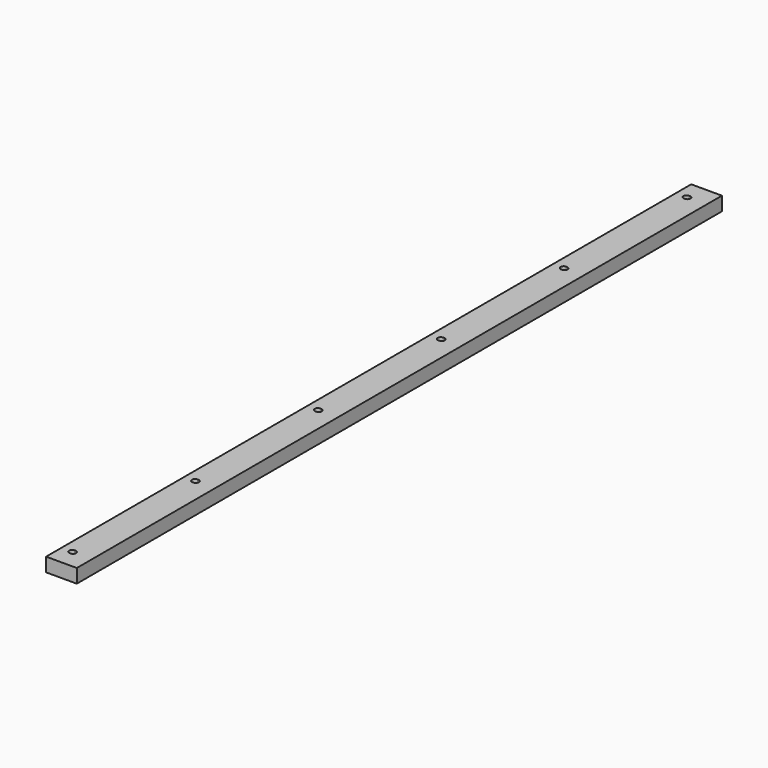
from build123d import *

# Parameters (mm, degrees)
SKETCH_W            = 40
SKETCH_H            = 1050
PAD_DEPTH           = 18
POCKET_DEPTH        = 0.001
POCKET_DEPTH_BACK   = 18.001
LINEARPATTERN_COUNT = 10
LINEARPATTERN_PITCH = 200


with BuildPart() as part:
    # Sketch → Pad (new body)
    with BuildSketch(Plane.XY):
        with Locations((20, 525)):
            Rectangle(SKETCH_W, SKETCH_H)
    extrude(amount=PAD_DEPTH)

    # Sketch001 → Pocket (cut, two sides)
    with BuildSketch(Plane(origin=(14, 25, 0), x_dir=(1, 0, 0), z_dir=(0, 0, 1))) as pocket_sk:
        with BuildLine():
            ThreePointArc((0, 4.05), (-4.05, 0), (0, -4.05))
            Line((0, -4.05), (1, -4.05))
            ThreePointArc((1, -4.05), (5.05, 0), (1, 4.05))
            Line((1, 4.05), (0, 4.05))
        make_face()
    pocket = extrude(amount=-POCKET_DEPTH, mode=Mode.SUBTRACT) + extrude(pocket_sk.sketch, amount=POCKET_DEPTH_BACK, mode=Mode.SUBTRACT)

    # LinearPattern: Pocket ×10
    with Locations(*[(0, i * LINEARPATTERN_PITCH, 0) for i in range(1, LINEARPATTERN_COUNT)]):
        add(pocket, mode=Mode.SUBTRACT)


solid = part.part
